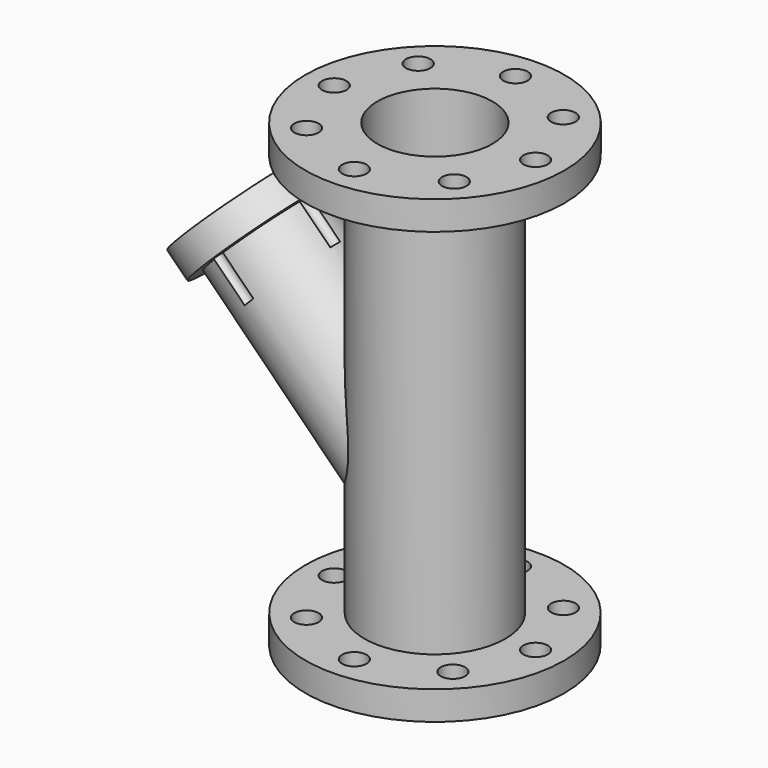
from build123d import *

# Parameters (mm, degrees)
F0_R      = 45
F1_DEPTH  = 10
F2_R      = 24.5
F3_DEPTH  = 140
F4_R      = 45.0356217661
F5_DEPTH  = 10
F6_R      = 20
F7_DEPTH  = 160
F8_R      = 4.25
F9_DEPTH  = 25
F10_R     = 4.25
F11_DEPTH = 25
F14_R     = 20
F15_DEPTH = 71.8
F16_R     = 25
F17_DEPTH = 10
F18_R     = 14.4589197706
F19_DEPTH = 98.5
F20_R     = 15.5945344816
F21_DEPTH = 25
F22_R     = 2.25
F23_DEPTH = 25


with BuildPart() as f1:
    # F0 (on Top) → F1 (new body)
    with BuildSketch(Plane.XY):
        Circle(F0_R)
    extrude(amount=F1_DEPTH)

    # F2 (on face) → F3 (join)
    with BuildSketch(Plane.XY.offset(10)):
        Circle(F2_R)
    extrude(amount=F3_DEPTH)

    # F4 (on face) → F5 (join)
    with BuildSketch(Plane.XY.offset(150)):
        Circle(F4_R)
    extrude(amount=F5_DEPTH)

    # F6 (on face) → F7 (cut)
    with BuildSketch(Plane(origin=(0, 0, 0), x_dir=(1, 0, 0), z_dir=(0, 0, -1))):
        Circle(F6_R)
    extrude(amount=-F7_DEPTH, mode=Mode.SUBTRACT)

    # F8 (on face) → F9 (cut)
    with BuildSketch(Plane.XY.offset(160)):
        with Locations((-25.2264022948, 24.2616699191)):
            Circle(F8_R)
        with Locations((25.2264022948, 24.2616699191)):
            Circle(F8_R)
        with Locations((0, 35)):
            Circle(F8_R)
        with Locations((35, 0)):
            Circle(F8_R)
        with Locations((25.7314957808, -23.7253055803)):
            Circle(F8_R)
        with Locations((0, -35)):
            Circle(F8_R)
        with Locations((-25.2264022948, -24.2616699191)):
            Circle(F8_R)
        with Locations((-35, 0)):
            Circle(F8_R)
    extrude(amount=-F9_DEPTH, mode=Mode.SUBTRACT)

    # F10 (on face) → F11 (cut)
    with BuildSketch(Plane(origin=(0, 0, 0), x_dir=(1, 0, 0), z_dir=(0, 0, -1))):
        with Locations((-25.4639357429, 24.0122463856)):
            Circle(F10_R)
        with Locations((0, 35)):
            Circle(F10_R)
        with Locations((25.4639357429, 24.0122463856)):
            Circle(F10_R)
        with Locations((35, 0)):
            Circle(F10_R)
        with Locations((25.4639357429, -24.0122463856)):
            Circle(F10_R)
        with Locations((0, -35)):
            Circle(F10_R)
        with Locations((-25.4639357429, -24.0122463856)):
            Circle(F10_R)
        with Locations((-35, 0)):
            Circle(F10_R)
    extrude(amount=-F11_DEPTH, mode=Mode.SUBTRACT)

    # F14 (on face) → F15 (join)
    with BuildSketch(Plane(origin=(-83.6396103068, 0, 83.6396103068), x_dir=(0.7071067812, 0, 0.7071067812), z_dir=(-0.7071067812, 0, 0.7071067812))):
        with Locations((34.390611576, 0)):
            Circle(F14_R)
    extrude(amount=-F15_DEPTH)

    # F16 (on face) → F17 (join)
    with BuildSketch(Plane(origin=(-83.6396103068, 0, 83.6396103068), x_dir=(0.7071067812, 0, 0.7071067812), z_dir=(-0.7071067812, 0, 0.7071067812))):
        with Locations((34.390611576, 0)):
            Circle(F16_R)
    extrude(amount=F17_DEPTH)

    # F18 (on face) → F19 (cut)
    with BuildSketch(Plane(origin=(-90.7106781187, 0, 90.7106781187), x_dir=(0.7071067812, 0, 0.7071067812), z_dir=(-0.7071067812, 0, 0.7071067812))):
        with Locations((34.390611576, 0)):
            Circle(F18_R)
    extrude(amount=F19_DEPTH, mode=Mode.SUBTRACT)

    # F20 (on face) → F21 (cut)
    with BuildSketch(Plane(origin=(-90.7106781187, 0, 90.7106781187), x_dir=(0.7071067812, 0, 0.7071067812), z_dir=(-0.7071067812, 0, 0.7071067812))):
        with Locations((34.390611576, 0)):
            Circle(F20_R)
    extrude(amount=-F21_DEPTH, mode=Mode.SUBTRACT)

    # F22 (on face) → F23 (cut)
    with BuildSketch(Plane(origin=(-90.7106781187, 0, 90.7106781187), x_dir=(0.7071067812, 0, 0.7071067812), z_dir=(-0.7071067812, 0, 0.7071067812))):
        with Locations((54.908573322, 0)):
            Circle(F22_R)
        with Locations((34.390611576, -20.517961746)):
            Circle(F22_R)
        with Locations((13.8726498301, 0)):
            Circle(F22_R)
        with Locations((34.390611576, 20.517961746)):
            Circle(F22_R)
    extrude(amount=-F23_DEPTH, mode=Mode.SUBTRACT)


solid = f1.part
